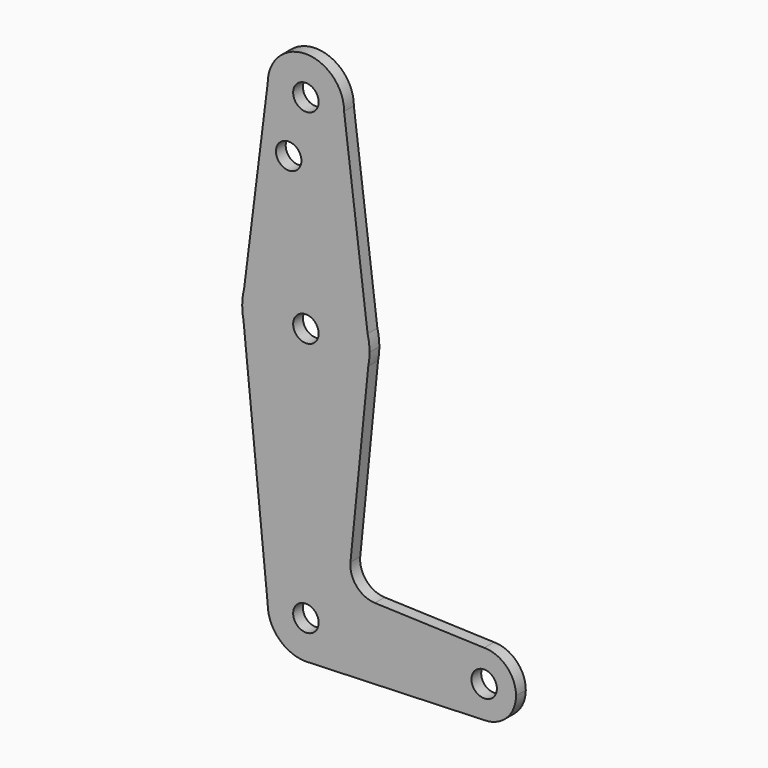
from build123d import *

# Parameters (mm, degrees)
F0_R     = 3.175
F1_DEPTH = 3.048


with BuildPart() as f1:
    # F0 (on Front) → F1 (new body)
    with BuildSketch(Plane.XZ):
        with BuildLine():
            ThreePointArc((0.6794904459, -9.5007324841), (6.9712901065, -6.4905114784), (9.525, 0))
            ThreePointArc((9.525, 0), (0, 9.525), (-9.525, 0))
            ThreePointArc((-9.525, 0), (-6.7351920908, -6.7351920908), (0, -9.525))
            Line((0, -9.525), (0.6794904459, -9.5007324841))
        make_face()
        Circle(F0_R, mode=Mode.SUBTRACT)
        with BuildLine():
            ThreePointArc((-9.525, 0), (0, 9.525), (9.525, 0))
            ThreePointArc((9.525, 0), (6.9712901065, -6.4905114784), (0.6794904459, -9.5007324841))
            Line((0.6794904459, -9.5007324841), (44.45, -7.9375))
            ThreePointArc((44.45, -7.9375), (36.5125, 0), (44.45, 7.9375))
            Line((44.45, 7.9375), (17.205676369, 8.9105115583))
            ThreePointArc((17.205676369, 8.9105115583), (12.6487931688, 11.0802958911), (11.1138314299, 15.8883142991))
            Line((11.1138314299, 15.8883142991), (15.5606435644, 60.3564356436))
            ThreePointArc((15.5606435644, 60.3564356436), (0, 47.625), (-15.5606435644, 60.3564356436))
            Line((-15.5606435644, 60.3564356436), (-9.525, 0))
        make_face()
        with BuildLine():
            ThreePointArc((0, -9.525), (0.3399618281, -9.5189311877), (0.6794904459, -9.5007324841))
            Line((0.6794904459, -9.5007324841), (0, -9.525))
        make_face()
        with BuildLine():
            Line((-15.875, 63.5), (-15.5606435644, 60.3564356436))
            ThreePointArc((-15.5606435644, 60.3564356436), (0, 47.625), (15.5606435644, 60.3564356436))
            Line((15.5606435644, 60.3564356436), (15.875, 63.5))
            Line((15.875, 63.5), (15.3865384615, 67.4076923077))
            ThreePointArc((15.3865384615, 67.4076923077), (0, 79.375), (-15.3865384615, 67.4076923077))
            Line((-15.3865384615, 67.4076923077), (-15.875, 63.5))
        make_face()
        with Locations((0, 63.5)):
            Circle(F0_R, mode=Mode.SUBTRACT)
        with BuildLine():
            ThreePointArc((-15.875, 63.5), (-15.7962153946, 61.9203784605), (-15.5606435644, 60.3564356436))
            Line((-15.5606435644, 60.3564356436), (-15.875, 63.5))
        make_face()
        with BuildLine():
            ThreePointArc((44.45, 7.9375), (36.5125, 0), (44.45, -7.9375))
            ThreePointArc((44.45, -7.9375), (50.0626600757, -5.6126600757), (52.3875, 0))
            ThreePointArc((52.3875, 0), (50.0626600757, 5.6126600757), (44.45, 7.9375))
        make_face()
        with Locations((44.45, 0)):
            Circle(F0_R, mode=Mode.SUBTRACT)
        with BuildLine():
            ThreePointArc((-15.3865384615, 67.4076923077), (-15.7524112928, 65.4690514116), (-15.875, 63.5))
            Line((-15.875, 63.5), (-15.3865384615, 67.4076923077))
        make_face()
        with BuildLine():
            Line((15.875, 63.5), (15.5606435644, 60.3564356436))
            ThreePointArc((15.5606435644, 60.3564356436), (15.7962153946, 61.9203784605), (15.875, 63.5))
        make_face()
        with BuildLine():
            Line((-9.525, 114.3), (-15.3865384615, 67.4076923077))
            ThreePointArc((-15.3865384615, 67.4076923077), (0, 79.375), (15.3865384615, 67.4076923077))
            Line((15.3865384615, 67.4076923077), (9.525, 114.3))
            ThreePointArc((9.525, 114.3), (0, 104.775), (-9.525, 114.3))
        make_face()
        with Locations((-4.2920303531, 100.0252)):
            Circle(F0_R, mode=Mode.SUBTRACT)
        with BuildLine():
            Line((15.3865384615, 67.4076923077), (15.875, 63.5))
            ThreePointArc((15.875, 63.5), (15.7524112928, 65.4690514116), (15.3865384615, 67.4076923077))
        make_face()
        with BuildLine():
            ThreePointArc((9.525, 114.3), (0, 123.825), (-9.525, 114.3))
            ThreePointArc((-9.525, 114.3), (0, 104.775), (9.525, 114.3))
        make_face()
        with Locations((0, 114.3)):
            Circle(F0_R, mode=Mode.SUBTRACT)
    extrude(amount=F1_DEPTH)


solid = f1.part
